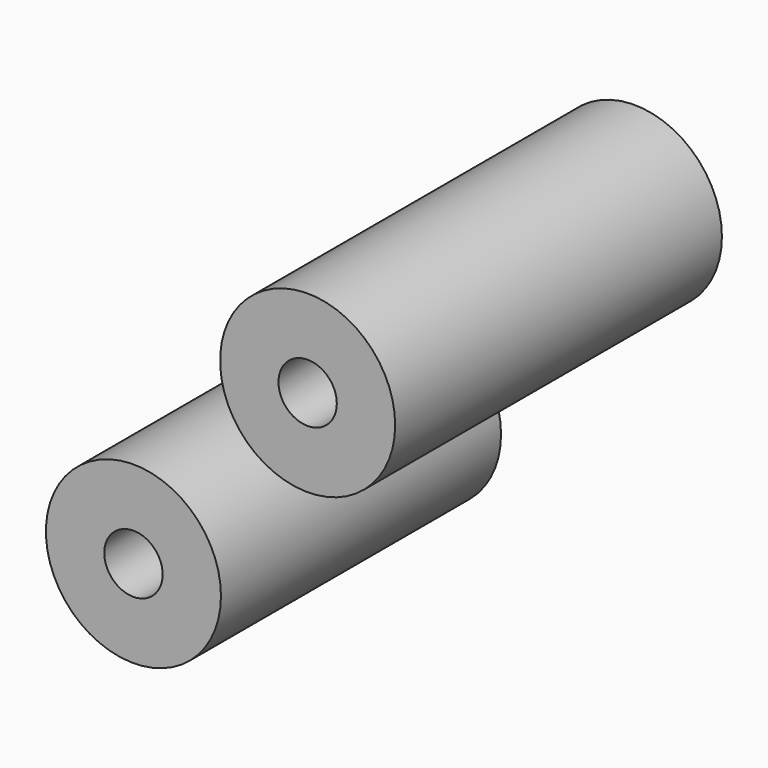
from build123d import *

# Parameters (mm, degrees)
F0_R     = 19.05
F0_R_2   = 6.35
F1_DEPTH = 76.2
F2_R     = 19.05
F2_R_2   = 6.35
F3_DEPTH = 88.9


with BuildPart() as f1:
    # F0 (on Front) → F1 (new body)
    with BuildSketch(Plane.XZ):
        Circle(F0_R)
        Circle(F0_R_2, mode=Mode.SUBTRACT)
        Circle(F0_R)
        Circle(F0_R_2, mode=Mode.SUBTRACT)
    extrude(amount=F1_DEPTH)


with BuildPart() as f3:
    # F2 (on Front) → F3 (new body)
    with BuildSketch(Plane.XZ):
        with Locations((48.075572, 53.549051)):
            Circle(F2_R)
        with Locations((48.075572, 53.549051)):
            Circle(F2_R_2, mode=Mode.SUBTRACT)
    extrude(amount=F3_DEPTH)


solid = Compound([f1.part, f3.part])
